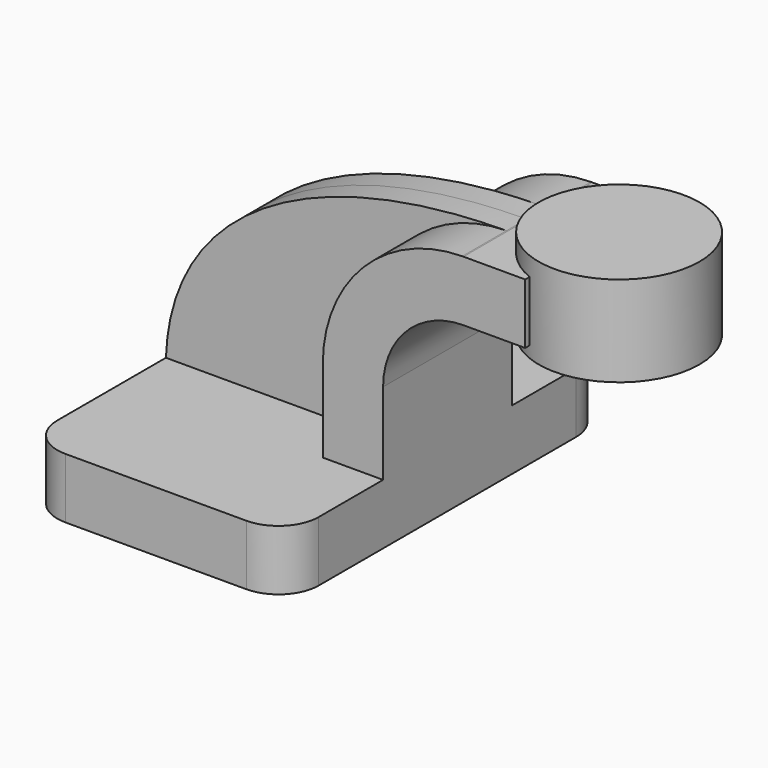
from build123d import *

# Parameters (mm, degrees)
F1_DEPTH = 63.5
F0_W     = 16.068018
F0_H     = 19.05
F2_DEPTH = 25.4
F3_DEPTH = 7.9375
F5_R     = 12.7


with BuildPart() as f1:
    # F0 (on Front) → F1 (new body, symmetric)
    with BuildSketch(Plane.XZ):
        Polygon((22.225, 9.525), (-41.275, 9.525), (-41.275, -9.525), (41.275, -9.525), (41.275, 9.525), align=None)
    extrude(amount=F1_DEPTH, both=True)

    # F0 (on Front) → F2 (join, symmetric)
    with BuildSketch(Plane.XZ):
        with BuildLine():
            Line((22.225, 35.372035), (22.225, 9.525))
            Line((22.225, 9.525), (41.275, 9.525))
            Line((41.275, 9.525), (41.275, 35.372035))
            ThreePointArc((41.275, 35.372035), (48.714488, 53.332548), (66.675, 60.772035))
            Line((66.675, 60.772035), (70.067601, 60.772035))
            Line((70.067601, 60.772035), (70.067601, 79.822035))
            Line((70.067601, 79.822035), (66.675, 79.822035))
            add(Edge.make_bspline(
                [(66.274157, 79.820228), (66.407695, 79.820948), (66.541309, 79.82155), (66.675, 79.822035)],
                knots=[128.53936, 128.53936, 128.53936, 128.53936, 128.8211, 128.8211, 128.8211, 128.8211], degree=3))
            ThreePointArc((66.274157, 79.820228), (35.102702, 66.660891), (22.225, 35.372035))
        make_face()
        with Locations((78.10161, 70.297035)):
            Rectangle(F0_W, F0_H)
    extrude(amount=F2_DEPTH, both=True)

    # F0 (on Front) → F3 (join, symmetric)
    with BuildSketch(Plane.XZ):
        with BuildLine():
            add(Edge.make_bspline(
                [(-41.275, 9.525), (-39.656203, 54.754084), (5.349448, 79.491852), (66.274157, 79.820228)],
                knots=[0, 0, 0, 0, 128.53936, 128.53936, 128.53936, 128.53936], degree=3))
            Line((-41.275, 9.525), (22.225, 9.525))
            Line((22.225, 9.525), (22.225, 35.372035))
            ThreePointArc((22.225, 35.372035), (35.102702, 66.660891), (66.274157, 79.820228))
        make_face()
    extrude(amount=F3_DEPTH, both=True)

    # F0 (on Front) → F4 (revolve)
    with BuildSketch(Plane.XZ):
        with BuildLine():
            Line((120.867601, 85.725), (95.467601, 85.725))
            Line((95.467601, 85.725), (95.467601, 71.4375))
            Line((95.467601, 71.4375), (95.467601, 71.145688))
            ThreePointArc((95.467601, 71.145688), (105.364047, 67.046446), (109.463289, 57.15))
            Line((109.463289, 57.15), (120.867601, 57.15))
            Line((120.867601, 57.15), (120.867601, 85.725))
        make_face()
    revolve(axis=Axis((95.467601, 0, 71.4375), (0, 0, -1)))

    # F5
    f5_edges = [f1.edges().sort_by_distance(p)[0] for p in [
        (-41.275, -63.5, 0),
        (41.275, -63.5, 0),
        (41.275, 63.5, 0),
        (-41.275, 63.5, 0),
    ]]
    fillet(f5_edges, radius=F5_R)


solid = f1.part
